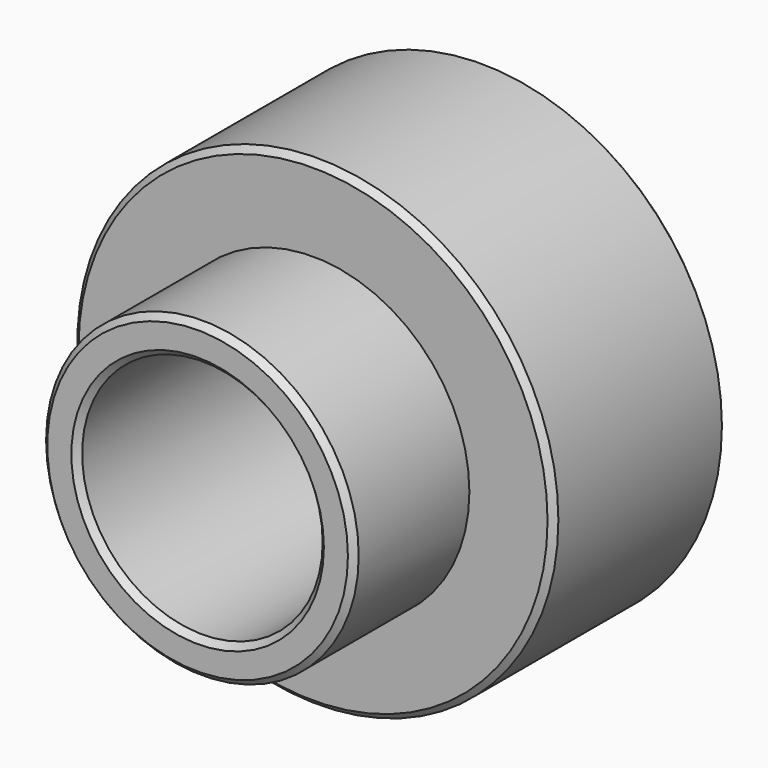
from build123d import *

# Parameters (mm, degrees)
F0_R     = 20
F0_R_2   = 10
F1_DEPTH = 18
F2_R     = 4
F3_DEPTH = 25
F4_R     = 13
F4_R_2   = 10
F5_DEPTH = 12
F6_SIZE  = 0.5


with BuildPart() as f1:
    # F0 (on Front) → F1 (new body)
    with BuildSketch(Plane.XZ):
        Circle(F0_R)
        Circle(F0_R_2, mode=Mode.SUBTRACT)
    extrude(amount=F1_DEPTH)

    # F2 (on Top) → F3 (cut)
    with BuildSketch(Plane.XY):
        with Locations((0, -9)):
            Circle(F2_R)
    extrude(amount=-F3_DEPTH, mode=Mode.SUBTRACT)

    # F4 (on face) → F5 (join)
    with BuildSketch(Plane.XZ.offset(18)):
        Circle(F4_R)
        Circle(F4_R_2, mode=Mode.SUBTRACT)
    extrude(amount=F5_DEPTH)

    # F6
    f6_edges = [f1.edges().sort_by_distance(p)[0] for p in [
        (-13, -30, 0),
        (-10, -30, 0),
        (-20, -18, 0),
        (-20, 0, 0),
    ]]
    chamfer(f6_edges, length=F6_SIZE)


solid = f1.part
